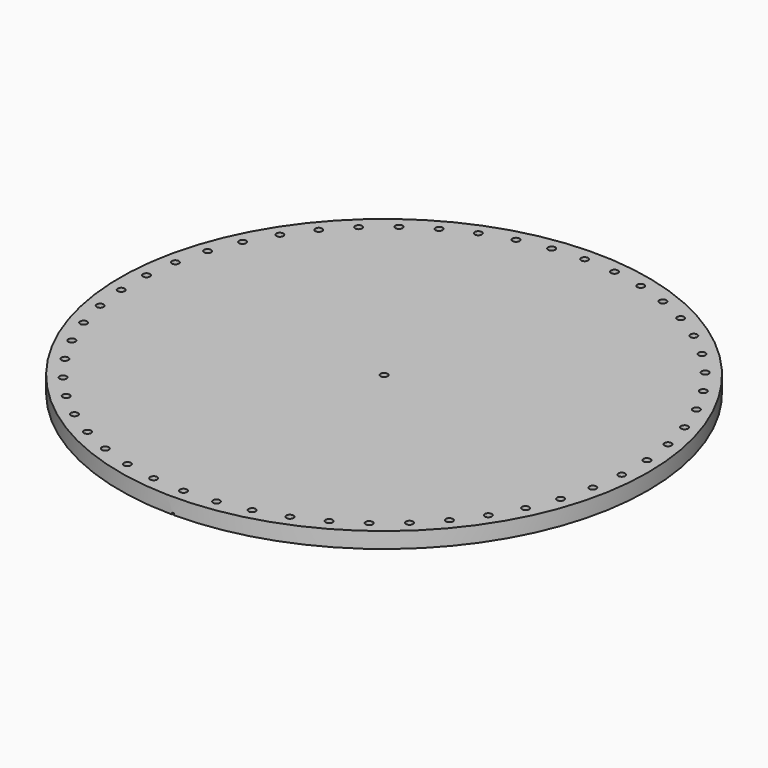
from build123d import *

# Parameters (mm, degrees)
SKETCH_R           = 300
SKETCH_R_2         = 4
PAD_DEPTH          = 18
SKETCH001_R        = 4
POCKET_DEPTH       = 1715.43907
POLARPATTERN_COUNT = 50
SKETCH002_W        = 2
SKETCH002_H        = 304.858551
POCKET001_DEPTH    = 2


with BuildPart() as part:
    # Sketch → Pad (new body)
    with BuildSketch(Plane.XY):
        Circle(SKETCH_R)
        Circle(SKETCH_R_2, mode=Mode.SUBTRACT)
    extrude(amount=PAD_DEPTH)

    # Sketch001 (on Face4 of Pad) → Pocket (cut, through all)
    with BuildSketch(Plane.XY.offset(18)):
        with Locations((0, 285)):
            Circle(SKETCH001_R)
    pocket = extrude(amount=-POCKET_DEPTH, mode=Mode.SUBTRACT)

    # PolarPattern: Pocket ×50 about axis
    polarpattern_axis = Axis((0, 0, 18), (0, 0, 1))
    for i in range(1, POLARPATTERN_COUNT):
        add(pocket.rotate(polarpattern_axis, i * 360 / POLARPATTERN_COUNT), mode=Mode.SUBTRACT)

    # Sketch002 (on Face2 of PolarPattern) → Pocket001 (cut)
    with BuildSketch(Plane(origin=(0, 0, 0), x_dir=(1, 0, 0), z_dir=(0, 0, -1))):
        with Locations((0, 152.429275)):
            Rectangle(SKETCH002_W, SKETCH002_H)
    extrude(amount=-POCKET001_DEPTH, mode=Mode.SUBTRACT)


solid = part.part
